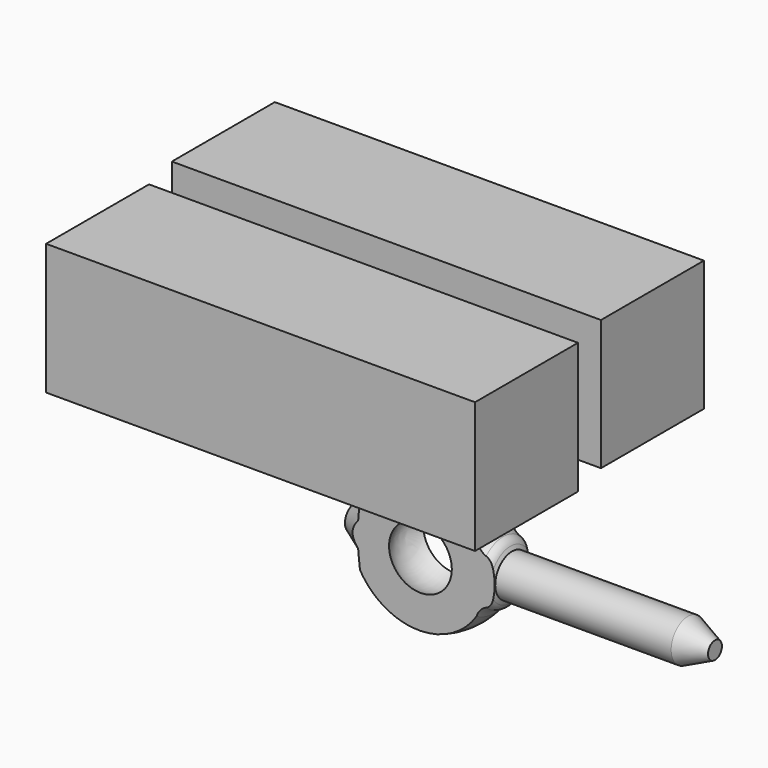
from build123d import *

# Parameters (mm, degrees)
F3_W     = 254
F3_H     = 77.5656452438
F4_DEPTH = 76.2
F5_DEPTH = 508
F7_W     = 254.0768384933
F7_H     = 77.2541463375
F8_DEPTH = 76.2
F9_DEPTH = 508


with BuildPart() as f1:
    # F0 (on Front) → F1 (revolve)
    with BuildSketch(Plane.XZ):
        Polygon((76.0066285729, -142.5303369761), (76.0066285729, -154.9596488476), (196.1768120527, -154.9596488476), (196.1768120527, -149.8045623302), (180.1735162735, -142.5303369761), align=None)
        with BuildLine():
            Line((-16.9816333801, -147.5132703781), (-16.9816333801, -154.9596488476))
            Line((-16.9816333801, -154.9596488476), (9.2413164675, -154.9596488476))
            ThreePointArc((9.2413164675, -154.9596488476), (28.1146879115, -132.9475770724), (53.2212257385, -147.4526524544))
            Line((53.2212257385, -147.4526524544), (56.6891767085, -147.4526524544))
            Line((56.6891767085, -147.4526524544), (56.6891767085, -154.9596488476))
            Line((56.6891767085, -154.9596488476), (76.0066285729, -154.9596488476))
            Line((76.0066285729, -154.9596488476), (76.0066285729, -142.5303369761))
            Line((76.0066285729, -142.5303369761), (75.0275660096, -140.1692962516))
            ThreePointArc((75.0275660096, -140.1692962516), (73.3609013597, -137.8381583704), (70.8390763513, -136.4771390819))
            ThreePointArc((70.8390763513, -136.4771390819), (67.4377654065, -134.6426306683), (65.1876702905, -131.5007507801))
            ThreePointArc((65.1876702905, -131.5007507801), (30.305047036, -114.7374551622), (-3.8617295213, -132.9153776169))
            Line((-3.8617295213, -132.9153776169), (-4.9277227372, -140.2549892664))
            Line((-4.9277227372, -140.2549892664), (-16.9816333801, -147.5132703781))
        make_face()
    revolve(axis=Axis((-70.0414925814, 0, -154.9596488476), (1, 0, 0)))



with BuildPart() as f4:
    # F3 (on offset) → F4 (new body)
    with BuildSketch(Plane.XZ.offset(12.7)):
        with Locations((-1.7801262438, -51.4241456985)):
            Rectangle(F3_W, F3_H)
    extrude(amount=F4_DEPTH)


with BuildPart() as f1_1:
    add(f1.part)
    # F5 (cut): a face of the model
    f5_faces = [f4.part.faces().sort_by_distance(p)[0] for p in [
        (-1.7801262438, -50.8, -90.2069683204),
    ]]
    extrude(f5_faces, amount=F5_DEPTH, mode=Mode.SUBTRACT)



with BuildPart() as f8:
    # F7 (on offset) → F8 (new body)
    with BuildSketch(Plane.XZ.offset(-12.7)):
        with Locations((-8.529573679, -51.903963089)):
            Rectangle(F7_W, F7_H)
    extrude(amount=-F8_DEPTH)


with BuildPart() as f1_2:
    add(f1_1.part)
    # F9 (cut): a face of the model
    f9_faces = [f8.part.faces().sort_by_distance(p)[0] for p in [
        (-8.529573679, 50.8, -90.5310362577),
    ]]
    extrude(f9_faces, amount=F9_DEPTH, mode=Mode.SUBTRACT)


solid = Compound([f4.part, f8.part, f1_2.part])
